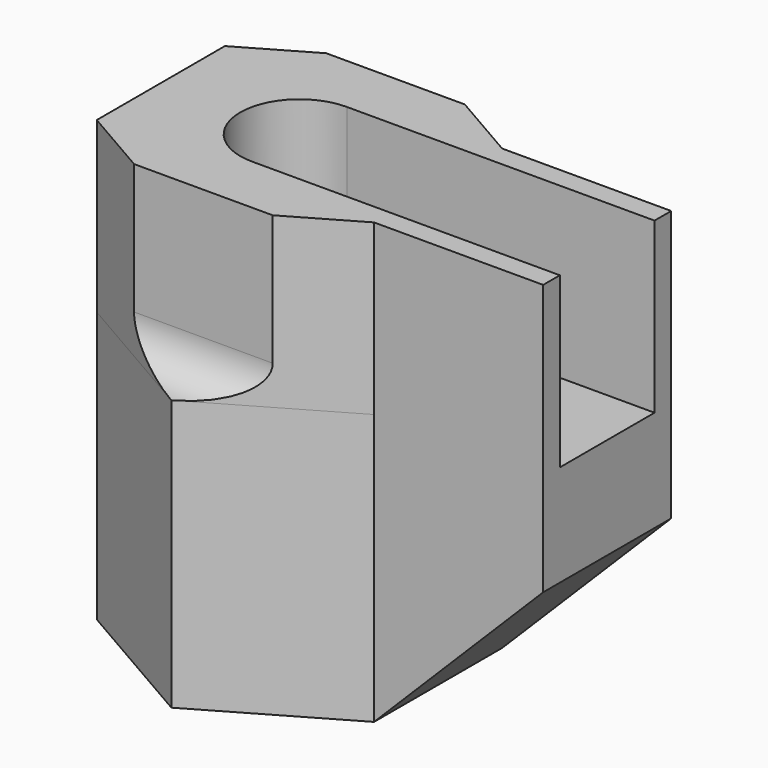
from build123d import *

# Parameters (mm, degrees)
F1_DEPTH = 12
F2_DEPTH = 10
F3_SIZE  = 10
F4_R     = 3.25
F5_DEPTH = 4
F7_DEPTH = 10
F8_R     = 2.3


with BuildPart() as f1:
    # F0 (on Top) → F1 (new body)
    with BuildSketch(Plane.XY):
        Polygon((-8.1961524227, 4.7320508076), (-8.1961524227, -4.7320508076), (0, -9.4641016151), (8.1961524227, -4.7320508076), (8.1961524227, 4.7320508076), (0, 9.4641016151), align=None)
        Polygon((-5.1961524227, 3), (0, 6), (5.1961524227, 3), (5.1961524227, -3), (0, -6), (-5.1961524227, -3), align=None, mode=Mode.SUBTRACT)
    extrude(amount=F1_DEPTH)

    # F2 (add): a face of the model
    f2_faces = [f1.faces().sort_by_distance(p)[0] for p in [
        (8.1961524227, 0, 6),
    ]]
    extrude(f2_faces, amount=F2_DEPTH)

    # F3
    f3_edges = [f1.edges().sort_by_distance(p)[0] for p in [
        (18.196152, 0, 0),
    ]]
    chamfer(f3_edges, length=F3_SIZE)

    # F4 (on face) → F5 (join)
    with BuildSketch(Plane.XY.offset(12)):
        Polygon((0, 9.4641016151), (-8.1961524227, 4.7320508076), (-8.1961524227, -4.7320508076), (0, -9.4641016151), (8.1961524227, -4.7320508076), (18.1961524227, -4.7320508076), (18.1961524227, 4.7320508076), (8.1961524227, 4.7320508076), align=None)
        Polygon((-5.1961524227, -3), (-5.1961524227, 3), (0, 6), (5.1961524227, 3), (5.1961524227, -3), (0, -6), align=None, mode=Mode.SUBTRACT)
        Polygon((0, 6), (-5.1961524227, 3), (-5.1961524227, -3), (0, -6), (5.1961524227, -3), (5.1961524227, 3), align=None)
        Circle(F4_R, mode=Mode.SUBTRACT)
    extrude(amount=F5_DEPTH)

    # F6 (on face) → F7 (join)
    with BuildSketch(Plane.XY.offset(16)):
        with BuildLine():
            ThreePointArc((0, -3.5), (-3.5, 0), (0, 3.5))
            Line((0, 3.5), (18.1961524227, 3.5))
            Line((18.1961524227, 3.5), (18.1961524227, 4.7320508076))
            Line((18.1961524227, 4.7320508076), (8.1961524227, 4.7320508076))
            Line((8.1961524227, 4.7320508076), (4.0980762114, 7.0980762114))
            Line((4.0980762114, 7.0980762114), (-4.0980762114, 7.0980762114))
            Line((-4.0980762114, 7.0980762114), (-8.1961524227, 4.7320508076))
            Line((-8.1961524227, 4.7320508076), (-8.1961524227, -4.7320508076))
            Line((-8.1961524227, -4.7320508076), (-4.0980762114, -7.0980762114))
            Line((-4.0980762114, -7.0980762114), (4.0980762114, -7.0980762114))
            Line((4.0980762114, -7.0980762114), (8.1961524227, -4.7320508076))
            Line((8.1961524227, -4.7320508076), (18.1961524227, -4.7320508076))
            Line((18.1961524227, -4.7320508076), (18.1961524227, -3.5))
            Line((18.1961524227, -3.5), (0, -3.5))
        make_face()
    extrude(amount=F7_DEPTH)

    # F8
    f8_edges = [f1.edges().sort_by_distance(p)[0] for p in [
        (0, -7.098076, 16),
        (0, 7.098076, 16),
    ]]
    fillet(f8_edges, radius=F8_R)


solid = f1.part
